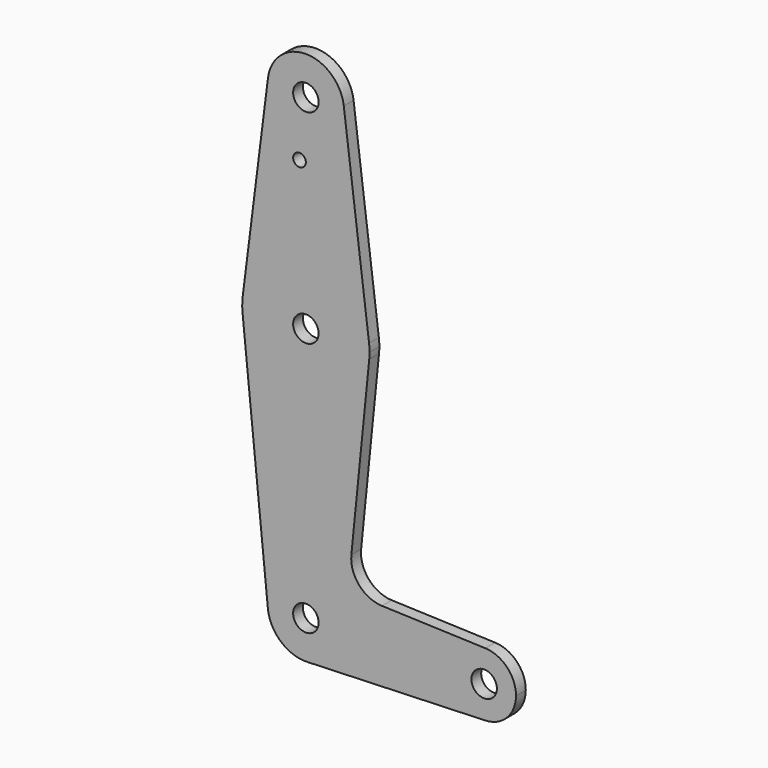
from build123d import *

# Parameters (mm, degrees)
F0_R     = 3.175
F0_R_2   = 1.5875
F1_DEPTH = 3.048


with BuildPart() as f1:
    # F0 (on Front) → F1 (new body)
    with BuildSketch(Plane.XZ):
        with BuildLine():
            ThreePointArc((-9.450293, 115.490625), (-0.596483, 104.793695), (9.525, 114.3))
            ThreePointArc((9.525, 114.3), (9.506305, 114.896483), (9.450293, 115.490625))
            ThreePointArc((9.450293, 115.490625), (0, 123.825), (-9.450293, 115.490625))
        make_face()
        with Locations((0, 114.3)):
            Circle(F0_R, mode=Mode.SUBTRACT)
        with BuildLine():
            ThreePointArc((9.450293, 115.490625), (9.506305, 114.896483), (9.525, 114.3))
            ThreePointArc((9.525, 114.3), (-0.596483, 104.793695), (-9.450293, 115.490625))
            Line((-9.450293, 115.490625), (-15.750488, 65.484375))
            ThreePointArc((-15.750488, 65.484375), (0, 79.375), (15.750488, 65.484375))
            Line((15.750488, 65.484375), (9.450293, 115.490625))
        make_face()
        with Locations((-1.5875, 100.0252)):
            Circle(F0_R_2, mode=Mode.SUBTRACT)
        with BuildLine():
            ThreePointArc((15.875, 63.5), (15.843841, 64.494139), (15.750488, 65.484375))
            ThreePointArc((15.750488, 65.484375), (0, 79.375), (-15.750488, 65.484375))
            ThreePointArc((-15.750488, 65.484375), (-15.873744, 63.699705), (-15.795426, 61.9125))
            ThreePointArc((-15.795426, 61.9125), (0, 47.625), (15.795426, 61.9125))
            ThreePointArc((15.795426, 61.9125), (15.855094, 62.705253), (15.875, 63.5))
        make_face()
        with Locations((0, 63.5)):
            Circle(F0_R, mode=Mode.SUBTRACT)
        with BuildLine():
            ThreePointArc((15.795426, 61.9125), (0, 47.625), (-15.795426, 61.9125))
            Line((-15.795426, 61.9125), (-9.477255, -0.9525))
            ThreePointArc((-9.477255, -0.9525), (-0.476848, 9.513056), (9.525, 0))
            ThreePointArc((9.525, 0), (6.854408, -6.613827), (0.340179, -9.518923))
            Line((0.340179, -9.518923), (44.733482, -7.932436))
            ThreePointArc((44.733482, -7.932436), (36.5125, -0.000539), (44.732405, 7.932475))
            Line((44.732405, 7.932475), (18.968328, 8.849706))
            ThreePointArc((18.968328, 8.849706), (13.261204, 11.567463), (11.340836, 17.589892))
            Line((11.340836, 17.589892), (15.795426, 61.9125))
        make_face()
        with BuildLine():
            ThreePointArc((9.525, 0), (-0.476848, 9.513056), (-9.477255, -0.9525))
            ThreePointArc((-9.477255, -0.9525), (-6.262383, -7.17692), (0.340179, -9.518923))
            ThreePointArc((0.340179, -9.518923), (6.854408, -6.613827), (9.525, 0))
        make_face()
        Circle(F0_R, mode=Mode.SUBTRACT)
        with BuildLine():
            ThreePointArc((44.732405, 7.932475), (36.5125, -0.000539), (44.733482, -7.932436))
            ThreePointArc((44.733482, -7.932436), (50.162007, -5.511523), (52.3875, 0))
            ThreePointArc((52.3875, 0), (50.161633, 5.51191), (44.732405, 7.932475))
        make_face()
        with Locations((44.45, 0)):
            Circle(F0_R, mode=Mode.SUBTRACT)
    extrude(amount=F1_DEPTH)


solid = f1.part
